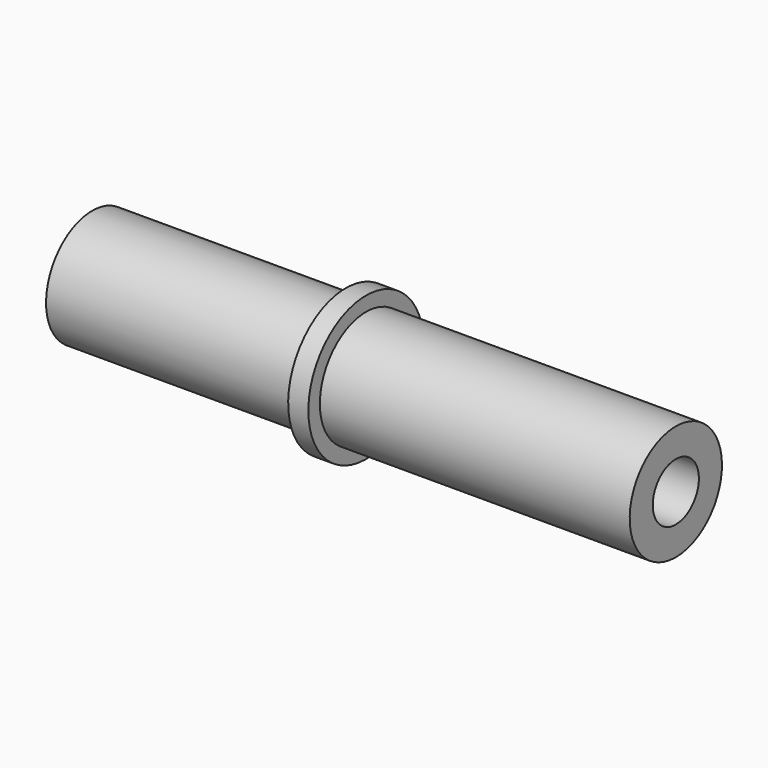
from build123d import *

# Parameters (mm, degrees)
CYLINDER138_R     = 2
CYLINDER138_DEPTH = 47.8
CYLINDER091_R     = 5
CYLINDER091_DEPTH = 1.4
CYLINDER072_R     = 4
CYLINDER072_DEPTH = 40.5


with BuildPart() as cylinder138:
    # Cylinder138 → Cylinder138 (new body)
    with BuildSketch(Plane(origin=(-125, 62, 10), x_dir=(0, 0, -1), z_dir=(1, 0, 0))):
        Circle(CYLINDER138_R)
    extrude(amount=CYLINDER138_DEPTH)


with BuildPart() as cylinder091:
    # Cylinder091 → Cylinder091 (new body)
    with BuildSketch(Plane(origin=(-107.4, 62, 10), x_dir=(0, 0, -1), z_dir=(1, 0, 0))):
        Circle(CYLINDER091_R)
    extrude(amount=CYLINDER091_DEPTH)


with BuildPart() as cut095:
    # Cylinder072 → Cylinder072 (new body)
    with BuildSketch(Plane(origin=(-125, 62, 10), x_dir=(0, 0, -1), z_dir=(1, 0, 0))):
        Circle(CYLINDER072_R)
    extrude(amount=CYLINDER072_DEPTH)

    # Fusion142: union Cylinder091
    add(cylinder091.part)

    # Cut095: cut Cylinder138
    add(cylinder138.part, mode=Mode.SUBTRACT)


with BuildPart() as cut095_1:
    # Cut095 placement: moved
    add(cut095.part.moved(Location((4, -10, 0))))


solid = cut095_1.part
